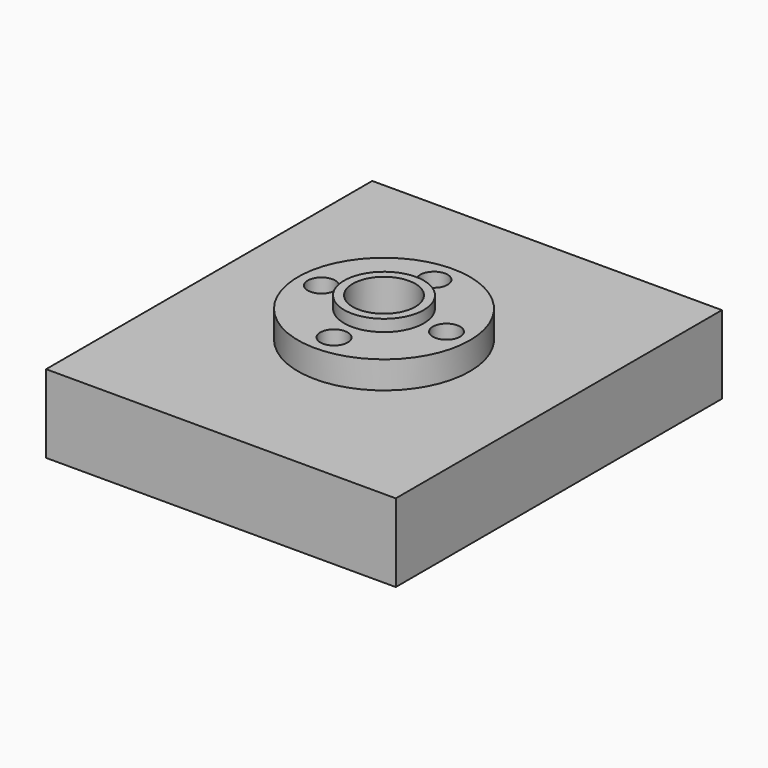
from build123d import *

# Parameters (mm, degrees)
F0_R     = 11
F0_R_2   = 1.75
F0_R_3   = 4
F1_DEPTH = 3.5
F2_R     = 5.1
F2_R_2   = 4
F3_DEPTH = 1.5
F4_R     = 5.1
F4_R_2   = 4
F5_DEPTH = 10
F6_W     = 44.766356
F6_H     = 52.191592
F6_R     = 1.75
F6_R_2   = 5.1
F7_DEPTH = 10
F8_R     = 1.75
F9_DEPTH = 10


with BuildPart() as f1:
    # F0 (on Top) → F1 (new body)
    with BuildSketch(Plane.XY):
        Circle(F0_R)
        with Locations((0, -8)):
            Circle(F0_R_2, mode=Mode.SUBTRACT)
        with Locations((-8, 0)):
            Circle(F0_R_2, mode=Mode.SUBTRACT)
        Circle(F0_R_3, mode=Mode.SUBTRACT)
        with Locations((8, 0)):
            Circle(F0_R_2, mode=Mode.SUBTRACT)
        with Locations((0, 8)):
            Circle(F0_R_2, mode=Mode.SUBTRACT)
    extrude(amount=F1_DEPTH)

    # F2 (on face) → F3 (join)
    with BuildSketch(Plane.XY.offset(3.5)):
        Circle(F2_R)
        Circle(F2_R_2, mode=Mode.SUBTRACT)
    extrude(amount=F3_DEPTH)

    # F4 (on face) → F5 (join)
    with BuildSketch(Plane(origin=(0, 0, 0), x_dir=(1, 0, 0), z_dir=(0, 0, -1))):
        Circle(F4_R)
        Circle(F4_R_2, mode=Mode.SUBTRACT)
    extrude(amount=F5_DEPTH)


with BuildPart() as f7:
    # F6 (on face) → F7 (new body)
    with BuildSketch(Plane(origin=(0, 0, 0), x_dir=(1, 0, 0), z_dir=(0, 0, -1))):
        Rectangle(F6_W, F6_H)
        with Locations((0, -8)):
            Circle(F6_R, mode=Mode.SUBTRACT)
        with Locations((-8, 0)):
            Circle(F6_R, mode=Mode.SUBTRACT)
        Circle(F6_R_2, mode=Mode.SUBTRACT)
        with Locations((8, 0)):
            Circle(F6_R, mode=Mode.SUBTRACT)
        with Locations((0, 8)):
            Circle(F6_R, mode=Mode.SUBTRACT)
    extrude(amount=F7_DEPTH)

    # F8 (on face) → F9 (cut)
    with BuildSketch(Plane(origin=(0, 0, -10), x_dir=(1, 0, 0), z_dir=(0, 0, -1))):
        with Locations((-5.656854, 5.656854)):
            Circle(F8_R)
        with Locations((5.656854, 5.656854)):
            Circle(F8_R)
        with Locations((5.656854, -5.656854)):
            Circle(F8_R)
        with Locations((-5.656854, -5.656854)):
            Circle(F8_R)
    extrude(amount=-F9_DEPTH, mode=Mode.SUBTRACT)


solid = Compound([f1.part, f7.part])
